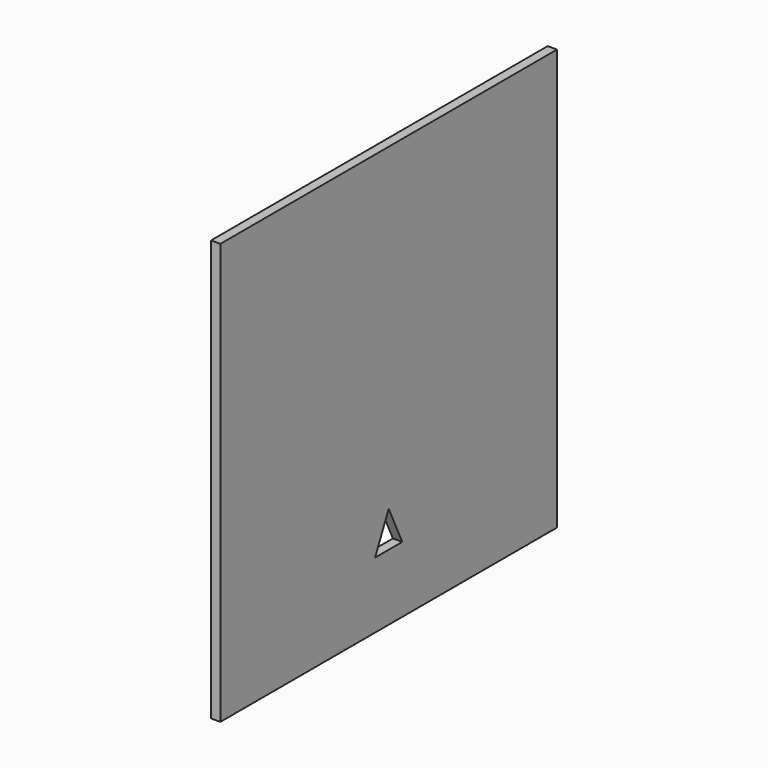
from build123d import *

# Parameters (mm, degrees)
PAD_DEPTH    = 10
POCKET_DEPTH = 10.001


with BuildPart() as part:
    # Sketch → Pad (new body)
    with BuildSketch(Plane.YZ):
        Polygon((0, 0), (0, 450), (450, 450), (450, 0), (225, 0), align=None)
    extrude(amount=-PAD_DEPTH)

    # Sketch001 → Pocket (cut, through all)
    with BuildSketch(Plane.YZ):
        Polygon((225, 70.62109), (206.855669, 70.62109), (225, 109.167255), (243.144331, 70.62109), align=None)
    extrude(amount=-POCKET_DEPTH, mode=Mode.SUBTRACT)


solid = part.part
